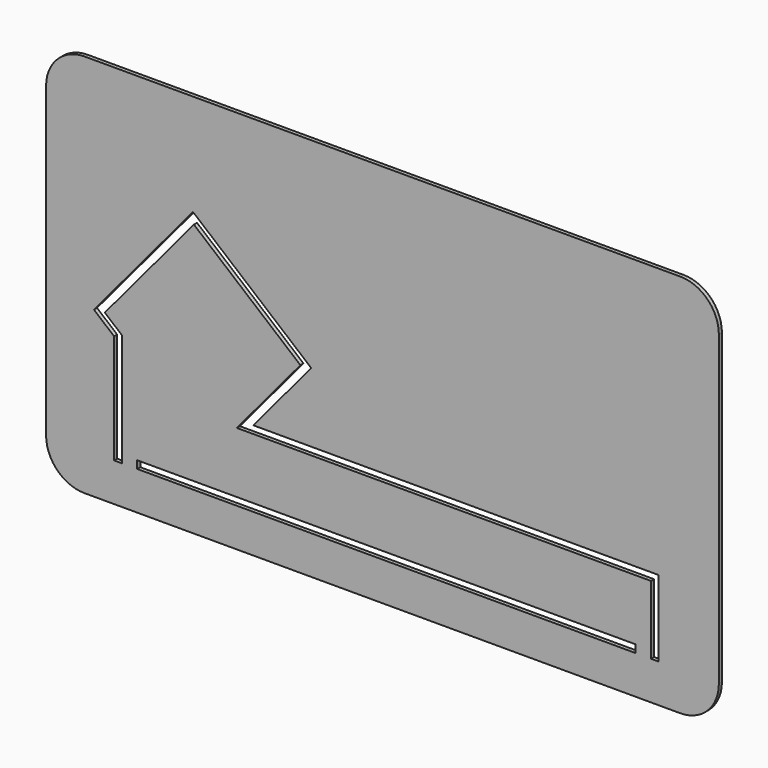
from build123d import *

# Parameters (mm, degrees)
F1_DEPTH = 0.508
F2_W     = 65.868683
F2_H     = 1.016
F3_DEPTH = 0.509


with BuildPart() as f1:
    # F0 (on Front) → F1 (new body)
    with BuildSketch(Plane.XZ):
        with BuildLine():
            Line((39.37, 25.4), (-39.37, 25.4))
            ThreePointArc((-39.37, 25.4), (-42.962102, 23.912102), (-44.45, 20.32))
            Line((-44.45, 20.32), (-44.45, -20.32))
            ThreePointArc((-44.45, -20.32), (-42.962102, -23.912102), (-39.37, -25.4))
            Line((-39.37, -25.4), (39.37, -25.4))
            ThreePointArc((39.37, -25.4), (42.962102, -23.912102), (44.45, -20.32))
            Line((44.45, -20.32), (44.45, 20.32))
            ThreePointArc((44.45, 20.32), (42.962102, 23.912102), (39.37, 25.4))
        make_face()
    extrude(amount=F1_DEPTH)

    # F2 (on face) → F3 (cut, through all)
    with BuildSketch(Plane.XZ.offset(0.508)):
        Polygon((-24.913168, 10.547717), (-10.842625, -1.23167), (-19.243895, -11.267034), (35.490545, -11.267034), (35.490545, -20.32), (36.506545, -20.32), (36.506545, -10.251034), (-17.068302, -10.251034), (-9.411394, -1.104816), (-25.040023, 11.978947), (-38.123786, -3.649681), (-35.458138, -5.881272), (-35.458138, -20.32), (-34.442138, -20.32), (-34.442138, -5.406801), (-36.692555, -3.522827), align=None)
        with Locations((0.524204, -19.812)):
            Rectangle(F2_W, F2_H)
    extrude(amount=-F3_DEPTH, mode=Mode.SUBTRACT)


solid = f1.part
